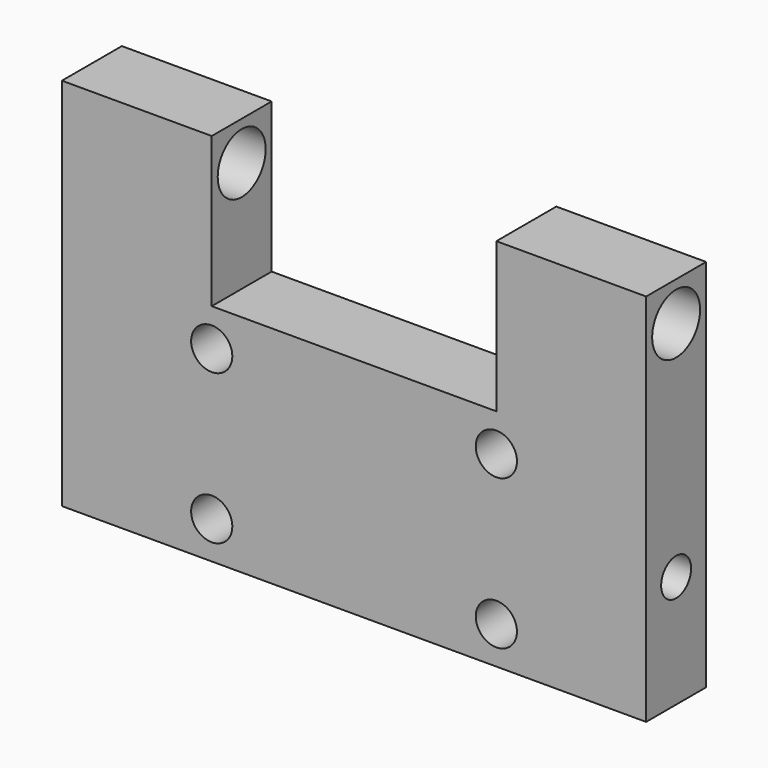
from build123d import *

# Parameters (mm, degrees)
F0_R     = 2.75
F1_DEPTH = 10
F2_R     = 4
F3_DEPTH = 99
F4_R     = 2.5
F5_DEPTH = 25
F6_R     = 2.5
F7_DEPTH = 25


with BuildPart() as f1:
    # F0 (on Front) → F1 (new body)
    with BuildSketch(Plane.XZ):
        Polygon((-19, 24), (-39, 24), (-39, -26), (39, -26), (39, 24), (19, 24), (19, 4), (-19, 4), align=None)
        with Locations((-19, -21)):
            Circle(F0_R, mode=Mode.SUBTRACT)
        with Locations((19, -21)):
            Circle(F0_R, mode=Mode.SUBTRACT)
        with Locations((-19, -1)):
            Circle(F0_R, mode=Mode.SUBTRACT)
        with Locations((19, -1)):
            Circle(F0_R, mode=Mode.SUBTRACT)
    extrude(amount=F1_DEPTH)

    # F2 (on face) → F3 (cut)
    with BuildSketch(Plane(origin=(-39, 0, 0), x_dir=(0, -1, 0), z_dir=(-1, 0, 0))):
        with Locations((5, 18.786615)):
            Circle(F2_R)
    extrude(amount=-F3_DEPTH, mode=Mode.SUBTRACT)

    # F4 (on face) → F5 (cut)
    with BuildSketch(Plane(origin=(-39, 0, 0), x_dir=(0, -1, 0), z_dir=(-1, 0, 0))):
        with Locations((5, -11)):
            Circle(F4_R)
    extrude(amount=-F5_DEPTH, mode=Mode.SUBTRACT)

    # F6 (on face) → F7 (cut)
    with BuildSketch(Plane.YZ.offset(39)):
        with Locations((-5, -11)):
            Circle(F6_R)
    extrude(amount=-F7_DEPTH, mode=Mode.SUBTRACT)


solid = f1.part
